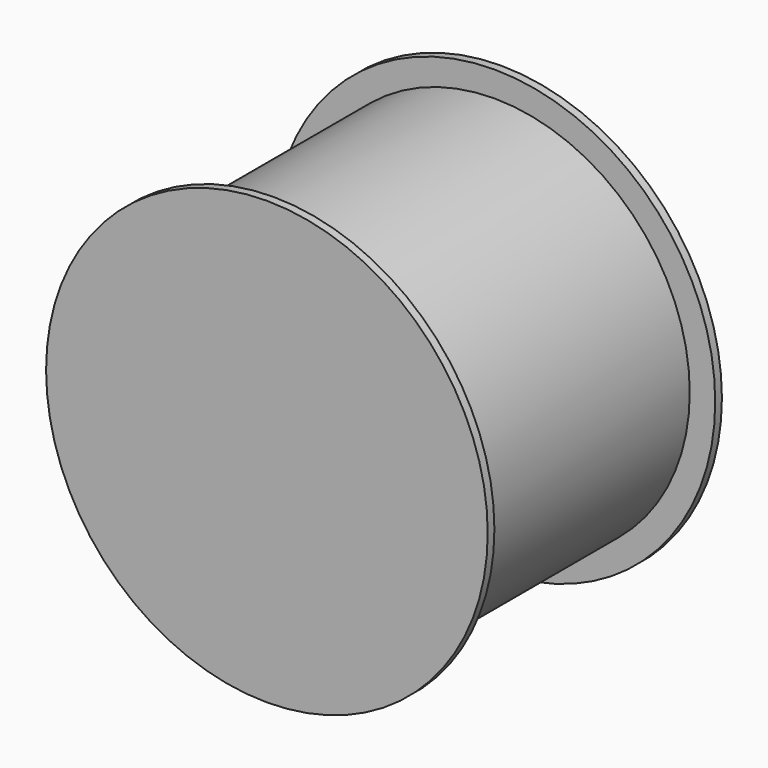
from build123d import *

# Parameters (mm, degrees)
F0_R     = 330.2
F1_DEPTH = 12.5
F2_R     = 292.1
F3_DEPTH = 412.75
F4_R     = 330.2
F4_R_2   = 292.1
F5_DEPTH = 12.5


with BuildPart() as f1:
    # F0 (on Front) → F1 (new body)
    with BuildSketch(Plane.XZ):
        Circle(F0_R)
    extrude(amount=F1_DEPTH)

    # F2 (on face) → F3 (join)
    with BuildSketch(Plane.XZ.offset(12.5)):
        Circle(F2_R)
    extrude(amount=F3_DEPTH)


with BuildPart() as f5:
    # F4 (on face) → F5 (new body)
    with BuildSketch(Plane.XZ.offset(425.25)):
        Circle(F4_R)
        Circle(F4_R_2, mode=Mode.SUBTRACT)
        Circle(F4_R_2)
    extrude(amount=F5_DEPTH)


solid = Compound([f1.part, f5.part])
